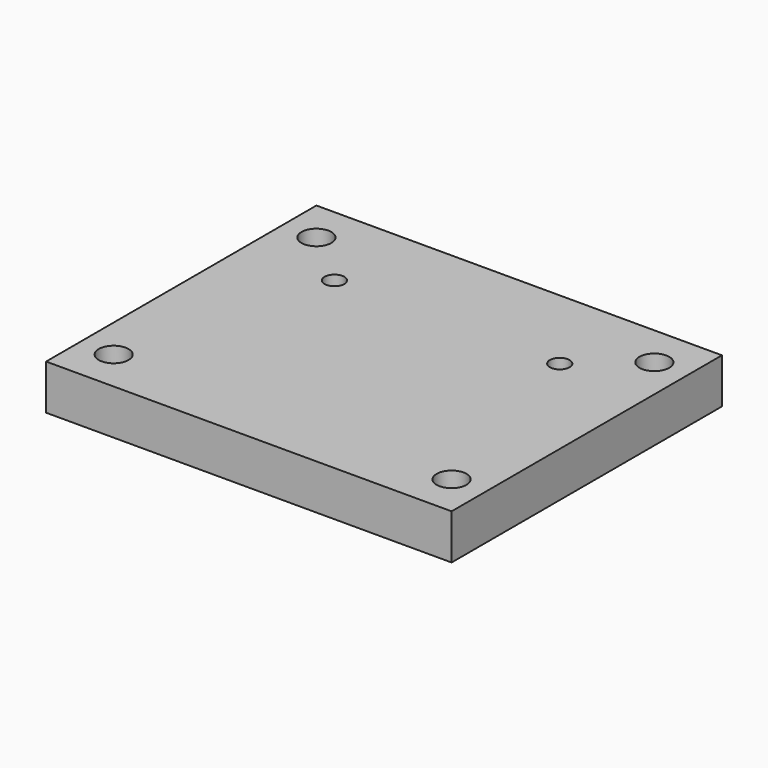
from build123d import *

# Parameters (mm, degrees)
F0_W     = 91.44
F0_H     = 76.2
F1_DEPTH = 10.16
F3_D     = 4.445
F5_D     = 6.731
F7_DEPTH = 6.35


with BuildPart() as f1:
    # F0 (on Top) → F1 (new body)
    with BuildSketch(Plane.XY):
        Rectangle(F0_W, F0_H)
    extrude(amount=F1_DEPTH)

    # F3 (through all)
    with Locations(Plane.XY.offset(10.16)):
        with Locations((-25.4, 17.78), (25.4, 17.78)):
            Hole(F3_D / 2)

    # F5 (through all)
    with Locations(Plane.XY.offset(10.16)):
        with Locations((-38.1, 28.575), (38.1, 28.575), (-38.1, -28.575), (38.1, -28.575)):
            Hole(F5_D / 2)

    # F6 (on face) → F7 (cut)
    with BuildSketch(Plane.XY):
        Polygon((38.1, 35.503203), (32.1, 32.039102), (32.1, 25.110898), (38.1, 21.646797), (44.1, 25.110898), (44.1, 32.039102), align=None)
        Polygon((-44.1, 25.110898), (-38.1, 21.646797), (-32.1, 25.110898), (-32.1, 32.039102), (-38.1, 35.503203), (-44.1, 32.039102), align=None)
        Polygon((44.1, -25.110898), (38.1, -21.646797), (32.1, -25.110898), (32.1, -32.039102), (38.1, -35.503203), (44.1, -32.039102), align=None)
        Polygon((-32.1, -25.110898), (-38.1, -21.646797), (-44.1, -25.110898), (-44.1, -32.039102), (-38.1, -35.503203), (-32.1, -32.039102), align=None)
    extrude(amount=F7_DEPTH, mode=Mode.SUBTRACT)


solid = f1.part
